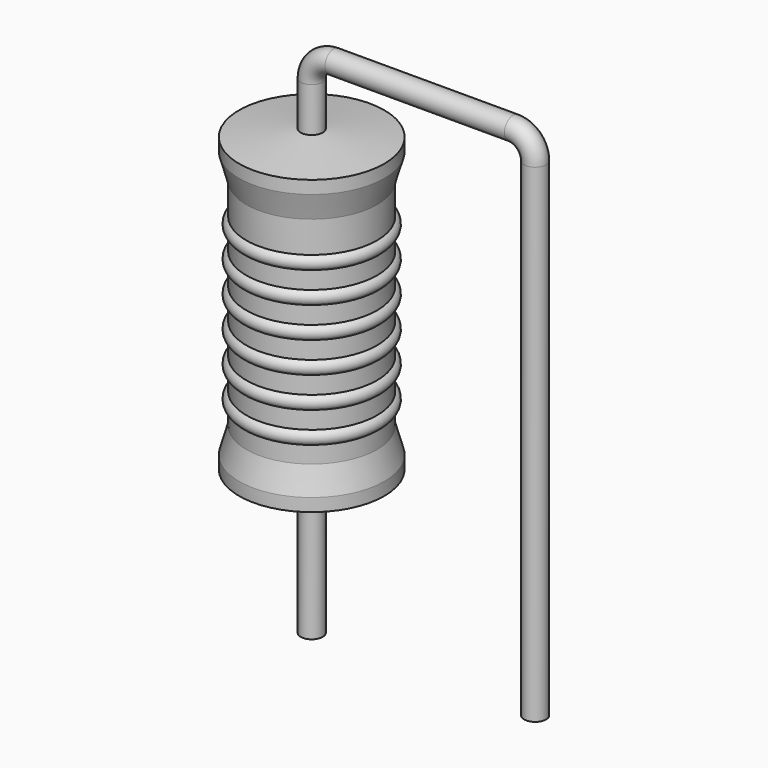
from build123d import *

# Parameters (mm, degrees)
SKETCH_R = 0.25


with BuildPart() as revolution:
    # Sketch002 → Revolution (revolve)
    with BuildSketch(Plane.XZ):
        Polygon((0, 0.1), (0, 7.1), (0.1875, 7.1), (1.65, 6.925), (1.65, 6.6325), (1.485, 6.05), (1.485, 1.15), (1.65, 0.5675), (1.65, 0.275), (0.1875, 0.1), align=None)
    revolve(axis=Axis((0, 0, 0), (0, 0, 1)))


with BuildPart() as sweep_body:
    # Sweep: sweep along a path in Sketch001
    with BuildLine(Plane.XZ) as sweep_path:
        Line((0, -3), (0, 8.1))
        ThreePointArc((0, 8.1), (0.146444, 8.453551), (0.499992, 8.6))
        Line((0.499992, 8.6), (4.58, 8.6))
        ThreePointArc((4.58, 8.6), (4.933553, 8.453553), (5.08, 8.1))
        Line((5.08, 8.1), (5.08, -3))
    # Sketch → Sweep (sweep)
    with BuildSketch(Plane.XY.offset(-2)):
        Circle(SKETCH_R)
    sweep(path=sweep_path.line)


with BuildPart() as obj1:
    # Sketch003 → Revolution001 (revolve)
    with BuildSketch(Plane.XZ):
        with BuildLine():
            Line((1.32, 5.72), (1.32, 1.15))
            Line((1.32, 1.15), (1.419, 1.15))
            Line((1.419, 1.15), (1.419, 1.52))
            ThreePointArc((1.419, 1.52), (1.584, 1.685), (1.419, 1.85))
            Line((1.419, 1.85), (1.419, 2.22))
            ThreePointArc((1.419, 2.22), (1.584, 2.385), (1.419, 2.55))
            Line((1.419, 2.55), (1.419, 2.92))
            ThreePointArc((1.419, 2.92), (1.584, 3.085), (1.419, 3.25))
            Line((1.419, 3.25), (1.419, 3.62))
            ThreePointArc((1.419, 3.62), (1.584, 3.785), (1.419, 3.95))
            Line((1.419, 3.95), (1.419, 4.32))
            ThreePointArc((1.419, 4.32), (1.584, 4.485), (1.419, 4.65))
            Line((1.419, 4.65), (1.419, 5.02))
            ThreePointArc((1.419, 5.02), (1.584, 5.185), (1.419, 5.35))
            Line((1.419, 5.72), (1.419, 5.35))
            Line((1.32, 5.72), (1.419, 5.72))
        make_face()
    revolve(axis=Axis((0, 0, 0), (0, 0, 1)))

    # obj1: union Revolution, Sweep body
    add(revolution.part)
    add(sweep_body.part)


solid = obj1.part
